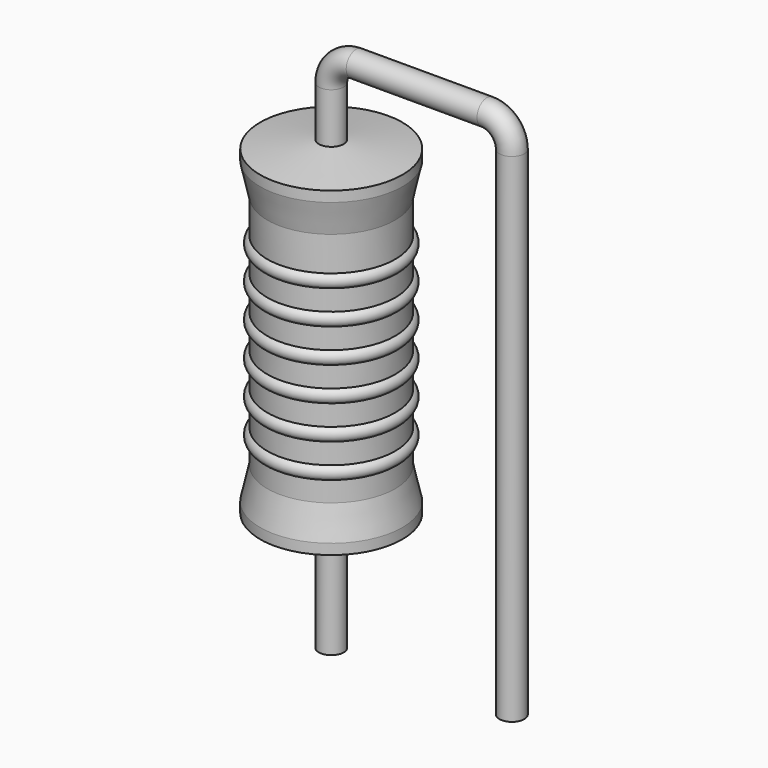
from build123d import *

# Parameters (mm, degrees)
SKETCH_R = 0.35


with BuildPart() as revolution:
    # Sketch002 → Revolution (revolve)
    with BuildSketch(Plane.XZ):
        Polygon((0, 0.1), (0, 9.6), (0.2625, 9.6), (2, 9.3625), (2, 9.07), (1.8, 8.175), (1.8, 1.525), (2, 0.63), (2, 0.3375), (0.2625, 0.1), align=None)
    revolve(axis=Axis((0, 0, 0), (0, 0, 1)))


with BuildPart() as revolution001:
    # Sketch003 → Revolution001 (revolve)
    with BuildSketch(Plane.XZ):
        with BuildLine():
            Line((1.6, 7.775), (1.6, 1.525))
            Line((1.6, 1.525), (1.72, 1.525))
            Line((1.72, 1.525), (1.72, 2.075))
            ThreePointArc((1.72, 2.075), (1.92, 2.275), (1.72, 2.475))
            Line((1.72, 2.475), (1.72, 3.025))
            ThreePointArc((1.72, 3.025), (1.92, 3.225), (1.72, 3.425))
            Line((1.72, 3.425), (1.72, 3.975))
            ThreePointArc((1.72, 3.975), (1.92, 4.175), (1.72, 4.375))
            Line((1.72, 4.375), (1.72, 4.925))
            ThreePointArc((1.72, 4.925), (1.92, 5.125), (1.72, 5.325))
            Line((1.72, 5.325), (1.72, 5.875))
            ThreePointArc((1.72, 5.875), (1.92, 6.075), (1.72, 6.275))
            Line((1.72, 6.275), (1.72, 6.825))
            ThreePointArc((1.72, 6.825), (1.92, 7.025), (1.72, 7.225))
            Line((1.72, 7.775), (1.72, 7.225))
            Line((1.6, 7.775), (1.72, 7.775))
        make_face()
    revolve(axis=Axis((0, 0, 0), (0, 0, 1)))


with BuildPart() as obj1:
    # Sweep: sweep along a path in Sketch001
    with BuildLine(Plane.XZ) as sweep_path:
        Line((0, -3), (0, 11))
        ThreePointArc((0, 11), (0.205022, 11.494972), (0.699992, 11.7))
        Line((0.699992, 11.7), (4.38, 11.7))
        ThreePointArc((4.38, 11.7), (4.874975, 11.494975), (5.08, 11))
        Line((5.08, 11), (5.08, -3))
    # Sketch → Sweep (sweep)
    with BuildSketch(Plane.XY.offset(-2)):
        Circle(SKETCH_R)
    sweep(path=sweep_path.line)

    # obj1: union Revolution, Revolution001
    add(revolution.part)
    add(revolution001.part)


solid = obj1.part
